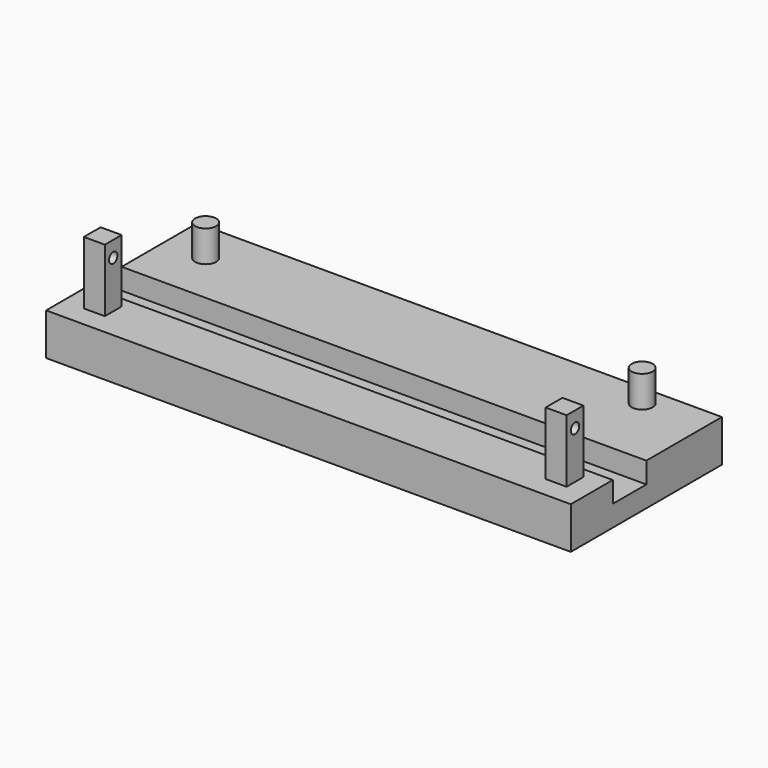
from build123d import *

# Parameters (mm, degrees)
F0_W      = 250
F0_H      = 90
F1_DEPTH  = 20
F2_R      = 5
F3_DEPTH  = 15
F4_W      = 250
F4_H      = 20
F5_DEPTH  = 10
F6_W      = 10
F6_H      = 10
F7_DEPTH  = 30
F8_R      = 2.5
F9_DEPTH  = 20.001
F10_R     = 2.5
F11_DEPTH = 20.001


with BuildPart() as f1:
    # F0 (on Top) → F1 (new body)
    with BuildSketch(Plane.XY):
        Rectangle(F0_W, F0_H)
    extrude(amount=F1_DEPTH)

    # F2 (on face) → F3 (join)
    with BuildSketch(Plane.XY.offset(20)):
        with Locations((95, 35)):
            Circle(F2_R)
        with Locations((-105, 25)):
            Circle(F2_R)
    extrude(amount=F3_DEPTH)

    # F4 (on face) → F5 (cut)
    with BuildSketch(Plane.XY.offset(20)):
        with Locations((0, -10)):
            Rectangle(F4_W, F4_H)
    extrude(amount=-F5_DEPTH, mode=Mode.SUBTRACT)

    # F6 (on face) → F7 (join)
    with BuildSketch(Plane.XY.offset(20)):
        with Locations((-110, -30)):
            Rectangle(F6_W, F6_H)
        with Locations((110, -30)):
            Rectangle(F6_W, F6_H)
    extrude(amount=F7_DEPTH)

    # F8 (on face) → F9 (cut, through all)
    with BuildSketch(Plane.YZ.offset(-105)):
        with Locations((-30, 42.5)):
            Circle(F8_R)
    extrude(amount=-F9_DEPTH, mode=Mode.SUBTRACT)

    # F10 (on face) → F11 (cut, through all)
    with BuildSketch(Plane(origin=(105, 0, 0), x_dir=(0, -1, 0), z_dir=(-1, 0, 0))):
        with Locations((30, 42.5)):
            Circle(F10_R)
    extrude(amount=-F11_DEPTH, mode=Mode.SUBTRACT)


solid = f1.part
